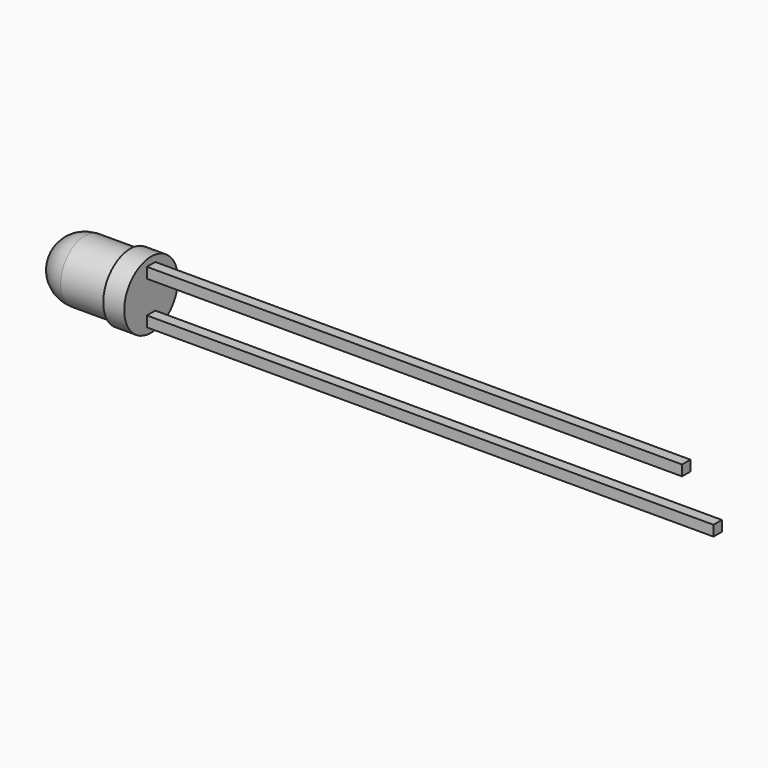
from build123d import *

# Parameters (mm, degrees)
F3_DEPTH  = 27
F3_FACE_W = 0.5
F3_FACE_H = 0.5
F4_DEPTH  = 1.5


with BuildPart() as f1:
    # F0 (on Front) → F1 (revolve)
    with BuildSketch(Plane.XZ):
        with BuildLine():
            Line((2.15, 1.45), (0, 1.45))
            ThreePointArc((0, 1.45), (-1.025305, 1.025305), (-1.45, 0))
            Line((-1.45, 0), (3.15, 0))
            Line((3.15, 0), (3.15, 1.6))
            Line((3.15, 1.6), (2.15, 1.6))
            Line((2.15, 1.6), (2.15, 1.45))
        make_face()
    revolve(axis=Axis((4.33001, 0, 0), (1, 0, 0)))

    # F2 (on face) → F3 (join)
    with BuildSketch(Plane.YZ.offset(3.15)):
        Polygon((0.25, -0.77), (-0.25, -0.77), (-0.25, -1.27), (0, -1.27), (0.25, -1.27), align=None)
        Polygon((0.25, 1.27), (0, 1.27), (-0.25, 1.27), (-0.25, 0.77), (0.25, 0.77), align=None)
    extrude(amount=F3_DEPTH)

    # F3_face (on face) → F4 (cut)
    with BuildSketch(Plane(origin=(30.15, 0, 1.02), x_dir=(0, 1, 0), z_dir=(1, 0, 0))):
        Rectangle(F3_FACE_W, F3_FACE_H)
    extrude(amount=-F4_DEPTH, mode=Mode.SUBTRACT)


solid = f1.part
